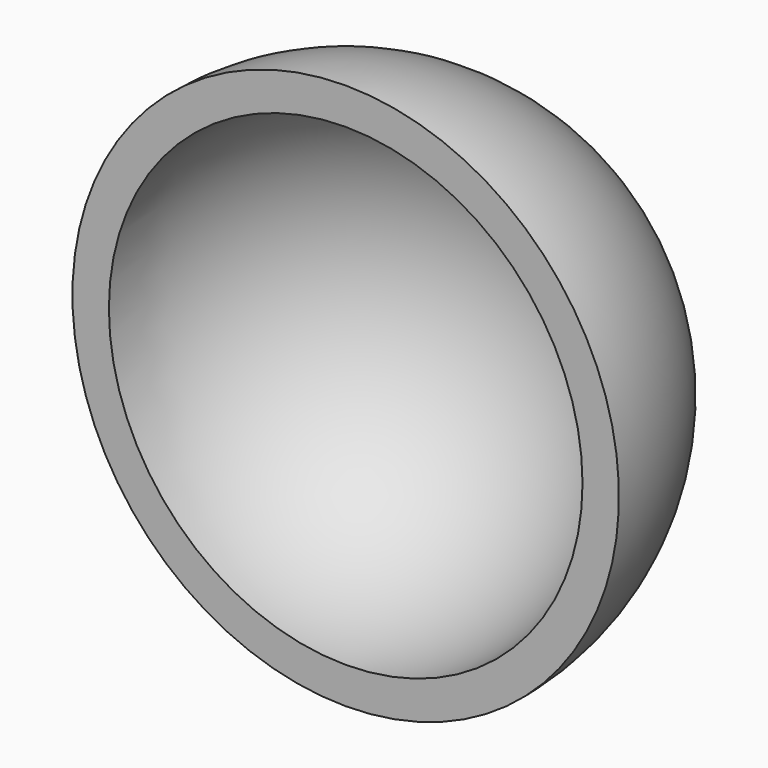
from build123d import *

# Parameters (mm, degrees)
F1_ANGLE = 180
F2_T     = -2.54


with BuildPart() as f1:
    # F0 (on Front) → F1 (revolve)
    with BuildSketch(Plane.XZ):
        with BuildLine():
            Line((0, 19.05), (0, -19.05))
            ThreePointArc((0, -19.05), (19.05, 0), (0, 19.05))
        make_face()
    revolve(axis=Axis((0, 0, 24.029225), (0, 0, 1)), revolution_arc=F1_ANGLE)

    # F2
    f2_openings = [f1.faces().sort_by_distance(p)[0] for p in [
        (0, 0, 0),
    ]]
    offset(amount=F2_T, openings=f2_openings)


solid = f1.part
